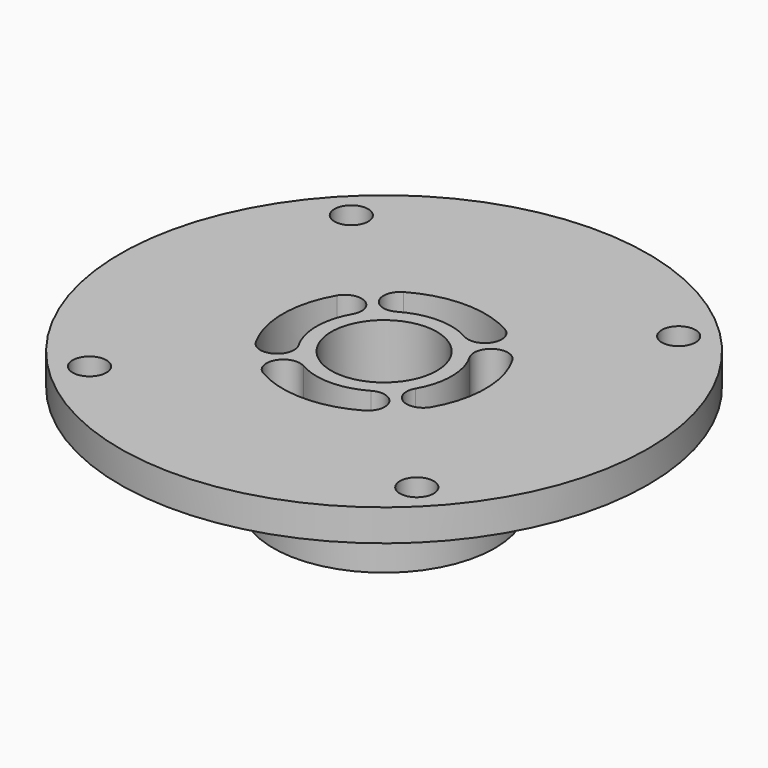
from build123d import *

# Parameters (mm, degrees)
SKETCH_R        = 10.5
PAD_DEPTH       = 10
SKETCH001_R     = 25
SKETCH001_R_2   = 1.6
PAD001_DEPTH    = 3
SKETCH002_R     = 5
POCKET_DEPTH    = 13.001
POCKET001_DEPTH = 13.001


with BuildPart() as part:
    # Sketch → Pad (new body)
    with BuildSketch(Plane.XY):
        Circle(SKETCH_R)
    extrude(amount=PAD_DEPTH)

    # Sketch001 (on Face3 of Pad) → Pad001 (join)
    with BuildSketch(Plane.XY.offset(10)):
        Circle(SKETCH001_R)
        with Locations((-15.5, -15.5)):
            Circle(SKETCH001_R_2, mode=Mode.SUBTRACT)
        with Locations((15.5, -15.5)):
            Circle(SKETCH001_R_2, mode=Mode.SUBTRACT)
        with Locations((15.5, 15.5)):
            Circle(SKETCH001_R_2, mode=Mode.SUBTRACT)
        with Locations((-15.5, 15.5)):
            Circle(SKETCH001_R_2, mode=Mode.SUBTRACT)
    extrude(amount=PAD001_DEPTH)

    # Sketch002 (on Face3 of Pad001) → Pocket (cut, through all)
    with BuildSketch(Plane.XY.offset(13)):
        Circle(SKETCH002_R)
    extrude(amount=-POCKET_DEPTH, mode=Mode.SUBTRACT)

    # Sketch003 (on Face3 of Pocket) → Pocket001 (cut, through all)
    with BuildSketch(Plane.XY.offset(13)):
        with BuildLine():
            ThreePointArc((3.2, 5.542563), (5.385641, 6.128203), (4.8, 8.313844))
            ThreePointArc((4.8, 8.313844), (0, 9.6), (-4.8, 8.313844))
            ThreePointArc((-4.8, 8.313844), (-5.385641, 6.128203), (-3.2, 5.542563))
            ThreePointArc((3.2, 5.542563), (0, 6.4), (-3.2, 5.542563))
        make_face()
        with BuildLine():
            ThreePointArc((8.313844, 4.8), (6.128203, 5.385641), (5.542563, 3.2))
            ThreePointArc((5.542563, -3.2), (6.4, 0), (5.542563, 3.2))
            ThreePointArc((5.542563, -3.2), (6.128203, -5.385641), (8.313844, -4.8))
            ThreePointArc((8.313844, -4.8), (9.6, 0), (8.313844, 4.8))
        make_face()
        with BuildLine():
            ThreePointArc((-5.542563, 3.2), (-6.128203, 5.385641), (-8.313844, 4.799999))
            ThreePointArc((-8.313844, 4.799999), (-9.6, 0), (-8.313844, -4.799999))
            ThreePointArc((-8.313844, -4.799999), (-6.128203, -5.385641), (-5.542563, -3.199999))
            ThreePointArc((-5.542563, 3.2), (-6.4, 0), (-5.542563, -3.199999))
        make_face()
        with BuildLine():
            ThreePointArc((4.8, -8.313844), (5.385641, -6.128203), (3.2, -5.542563))
            ThreePointArc((-3.199999, -5.542563), (0, -6.4), (3.2, -5.542563))
            ThreePointArc((-3.199999, -5.542563), (-5.38564, -6.128203), (-4.8, -8.313844))
            ThreePointArc((-4.8, -8.313844), (0, -9.6), (4.8, -8.313844))
        make_face()
    extrude(amount=-POCKET001_DEPTH, mode=Mode.SUBTRACT)


solid = part.part
